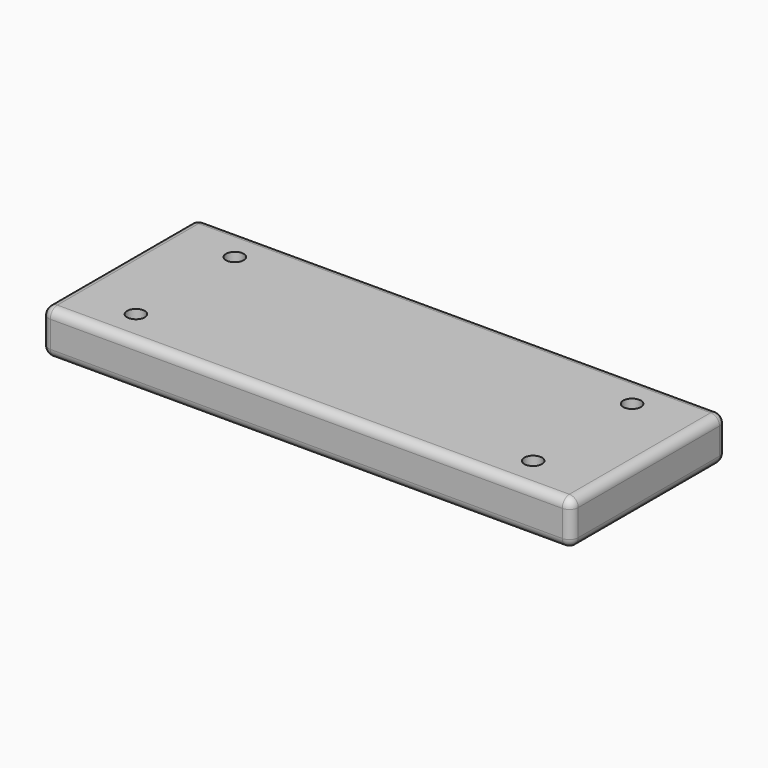
from build123d import *

# Parameters (mm, degrees)
F0_W     = 300
F0_H     = 110
F1_DEPTH = 25
F2_R     = 5
F3_DEPTH = 12
F4_R     = 5


with BuildPart() as f1:
    # F0 (on Top) → F1 (new body)
    with BuildSketch(Plane.XY):
        with Locations((-150, 55)):
            Rectangle(F0_W, F0_H)
    extrude(amount=F1_DEPTH)

    # F2 (on face) → F3 (cut)
    with BuildSketch(Plane.XY.offset(25)):
        with Locations((-262.5, 90)):
            Circle(F2_R)
        with Locations((-262.5, 20)):
            Circle(F2_R)
        with Locations((-37.5, 90)):
            Circle(F2_R)
        with Locations((-37.5, 20)):
            Circle(F2_R)
    extrude(amount=-F3_DEPTH, mode=Mode.SUBTRACT)

    # F4
    f4_edges = [f1.edges().sort_by_distance(p)[0] for p in [
        (0, 110, 12.5),
        (-300, 110, 12.5),
        (-150, 110, 0),
        (-150, 110, 25),
        (-300, 0, 12.5),
        (-300, 55, 0),
        (-300, 55, 25),
        (0, 0, 12.5),
        (-150, 0, 0),
        (-150, 0, 25),
        (0, 55, 0),
        (0, 55, 25),
    ]]
    fillet(f4_edges, radius=F4_R)


solid = f1.part
